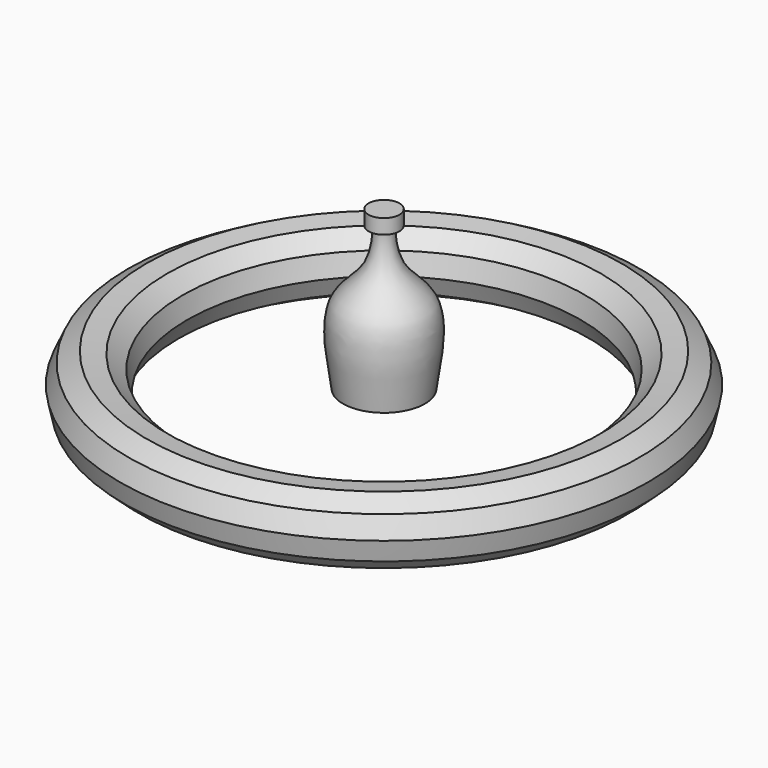
from build123d import *


with BuildPart() as f2:
    # F1 (on Front) → F2 (revolve)
    with BuildSketch(Plane.XZ):
        with BuildLine():
            add(Edge.make_bspline(
                [(-20.2061062144, 0), (-22.5734689299, 14.6112508726), (-26.6820375906, 39.9691426034), (-5.5523124358, 50.0009591615), (-3.9387598042, 69.6262983032), (-5.1045268818, 70.6953924398), (-5.2887980974, 70.7940426392)],
                knots=[0, 0, 0, 0, 0.3896957001, 0.6763186435, 0.9361015718, 0.9808657513, 0.9808657513, 0.9808657513, 0.9808657513], degree=3))
            add(Edge.make_bspline(
                [(-20.2061062144, 0), (-18.7857794121, -0.1142634705), (-15.8763879892, 0.4646922615), (-12.2980860209, -0.8998767802), (-10.4626503224, -0.2007785334)],
                knots=[0, 0, 0, 0, 0.4709395779, 1, 1, 1, 1], degree=3))
            Line((-10.4626503224, -0.2007785334), (0, 1.8057984016))
            Line((0, 1.8057984016), (0, 78.0057984016))
            Line((0, 78.0057984016), (-7.62, 78.0057984016))
            Line((-7.62, 78.0057984016), (-7.62, 70.7940426392))
            Line((-7.62, 70.7940426392), (-5.2887980974, 70.7940426392))
        make_face()
    revolve(axis=Axis((0, 0, 39.9057984016), (0, 0, -1)))


with BuildPart() as f3:
    # F0 (on Front) → F3 (revolve)
    with BuildSketch(Plane.XZ):
        Polygon((-110.2134334981, -16.3003819282), (-101.2976568997, -11.13955693), (-97.1180989371, -1.7237998042), (-99.2712086941, 8.350390257), (-106.934571425, 15.2350150594), (-117.1810430348, 16.3003819282), (-126.0968196332, 11.13955693), (-130.2763775958, 1.7237998042), (-128.1232678388, -8.350390257), (-120.4599051079, -15.2350150594), align=None)
    revolve(axis=Axis((0, 0, -0.4838183522), (0, 0, -1)))


solid = Compound([f2.part, f3.part])
